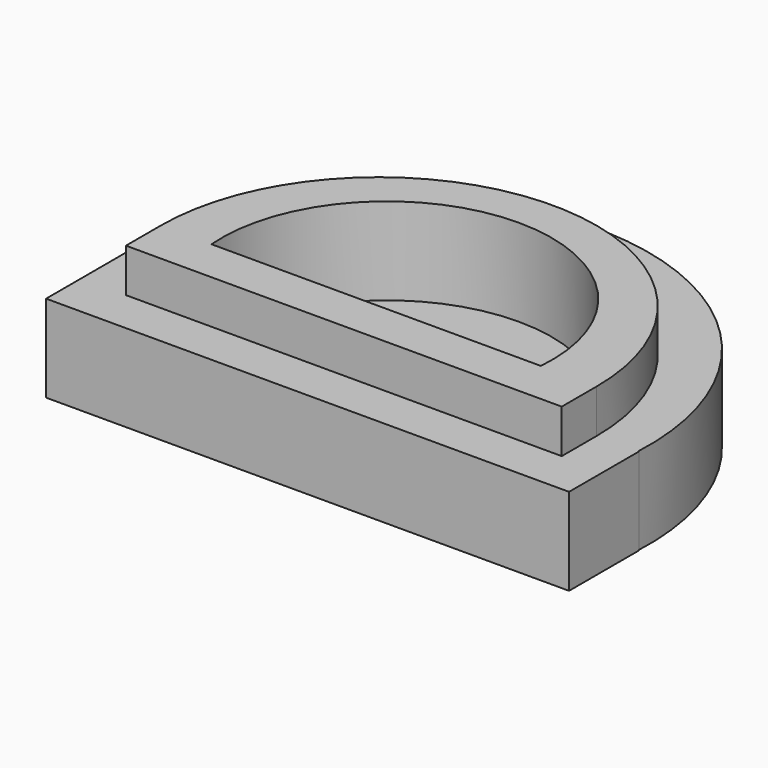
from build123d import *

# Parameters (mm, degrees)
F1_DEPTH = 25.4
F2_W     = 127
F2_H     = 12.7
F3_DEPTH = 12.7
F5_DEPTH = 25.4


with BuildPart() as f1:
    # F0 (on Top) → F1 (new body)
    with BuildSketch(Plane.XY):
        with BuildLine():
            Line((-76.610234, 0), (75.609069, 0))
            ThreePointArc((75.609069, 0), (-0.500583, 79.90958), (-76.610234, 0))
        make_face()
        Polygon((75.789766, 0), (75.609069, 0), (-76.610234, 0), (-76.610234, -25.4), (75.789766, -25.4), align=None)
    extrude(amount=F1_DEPTH)

    # F2 (on face) → F3 (join)
    with BuildSketch(Plane.XY.offset(25.4)):
        with BuildLine():
            Line((-63.5, 0), (63.5, 0))
            ThreePointArc((63.5, 0), (0, 63.5), (-63.5, 0))
        make_face()
        with Locations((0, -6.35)):
            Rectangle(F2_W, F2_H)
    extrude(amount=F3_DEPTH)

    # F4 (on face) → F5 (cut)
    with BuildSketch(Plane.XY.offset(38.1)):
        with BuildLine():
            Line((-48.730817, 0), (47.262773, 0))
            ThreePointArc((47.262773, 0), (-0.734022, 51.986661), (-48.730817, 0))
        make_face()
    extrude(amount=-F5_DEPTH, mode=Mode.SUBTRACT)


solid = f1.part
